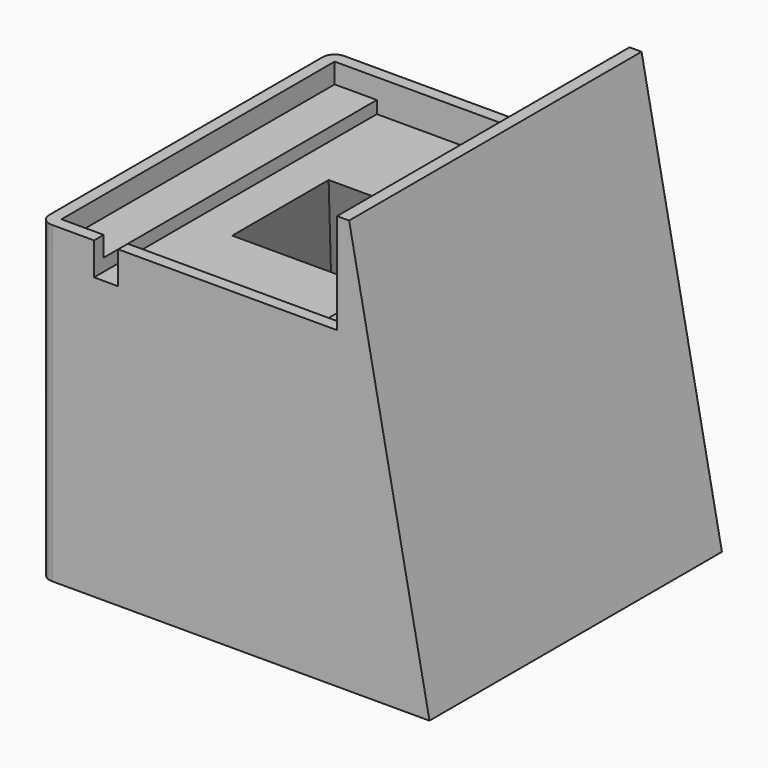
from build123d import *

# Parameters (mm, degrees)
F0_W      = 77
F0_H      = 91
F0_W_2    = 50
F0_H_2    = 85
F1_DEPTH  = 3.1
F2_W      = 77
F2_H      = 91
F2_W_2    = 71
F2_H_2    = 85
F3_DEPTH  = 5
F4_W      = 3
F4_H      = 91
F5_DEPTH  = 25
F6_W      = 77
F6_H      = 91
F6_W_2    = 71
F6_H_2    = 85
F7_DEPTH  = 70
F9_DEPTH  = 91
F11_DEPTH = 77
F12_W     = 6
F12_H     = 8.1
F13_DEPTH = 4
F15_DEPTH = 91
F16_W     = 3
F16_H     = 91
F17_DEPTH = 25
F18_R     = 3


with BuildPart() as f1:
    # F0 (on Top) → F1 (new body)
    with BuildSketch(Plane.XY):
        Rectangle(F0_W, F0_H)
        Rectangle(F0_W_2, F0_H_2, mode=Mode.SUBTRACT)
    extrude(amount=F1_DEPTH)

    # F2 (on face) → F3 (join)
    with BuildSketch(Plane.XY.offset(3.1)):
        Rectangle(F2_W, F2_H)
        Rectangle(F2_W_2, F2_H_2, mode=Mode.SUBTRACT)
    extrude(amount=F3_DEPTH)

    # F4 (on face) → F5 (join)
    with BuildSketch(Plane.XY.offset(8.1)):
        with Locations((-37, 0)):
            Rectangle(F4_W, F4_H)
        with Locations((37, 0)):
            Rectangle(F4_W, F4_H)
    extrude(amount=F5_DEPTH)

    # F6 (on face) → F7 (join)
    with BuildSketch(Plane(origin=(0, 0, 0), x_dir=(1, 0, 0), z_dir=(0, 0, -1))):
        Rectangle(F6_W, F6_H)
        Rectangle(F6_W_2, F6_H_2, mode=Mode.SUBTRACT)
    extrude(amount=F7_DEPTH)

    # F8 (on face) → F9 (join)
    with BuildSketch(Plane(origin=(0, 45.5, 0), x_dir=(-1, 0, 0), z_dir=(0, 1, 0))):
        Polygon((38.5, -70), (38.5, 0), (15, 0), (35.5, -70), align=None)
        Polygon((-15, 0), (-38.5, 0), (-38.5, -70), (-35.5, -70), align=None)
    extrude(amount=-F9_DEPTH)

    # F10 (on face) → F11 (join)
    with BuildSketch(Plane.YZ.offset(38.5)):
        Polygon((45.5, -70), (45.5, 0), (15, 0), (42.5, -70), align=None)
        Polygon((-15, 0), (-45.5, 0), (-45.5, -70), (-42.5, -70), align=None)
    extrude(amount=-F11_DEPTH)

    # F12 (on face) → F13 (cut)
    with BuildSketch(Plane(origin=(0, -42.5, 0), x_dir=(-1, 0, 0), z_dir=(0, 1, 0))):
        with Locations((22, 4.05)):
            Rectangle(F12_W, F12_H)
    extrude(amount=-F13_DEPTH, mode=Mode.SUBTRACT)

    # F14 (on face) → F15 (join)
    with BuildSketch(Plane.XZ.offset(45.5)):
        Polygon((58.5, -70), (38.5, 33.1), (38.5, -70), align=None)
    extrude(amount=-F15_DEPTH)

    # F16 (on face) → F17 (cut)
    with BuildSketch(Plane.XY.offset(33.1)):
        with Locations((-37, 0)):
            Rectangle(F16_W, F16_H)
    extrude(amount=-F17_DEPTH, mode=Mode.SUBTRACT)

    # F18
    f18_edges = [f1.edges().sort_by_distance(p)[0] for p in [
        (-38.5, -45.5, -30.95),
        (-38.5, 45.5, -30.95),
    ]]
    fillet(f18_edges, radius=F18_R)


solid = f1.part
